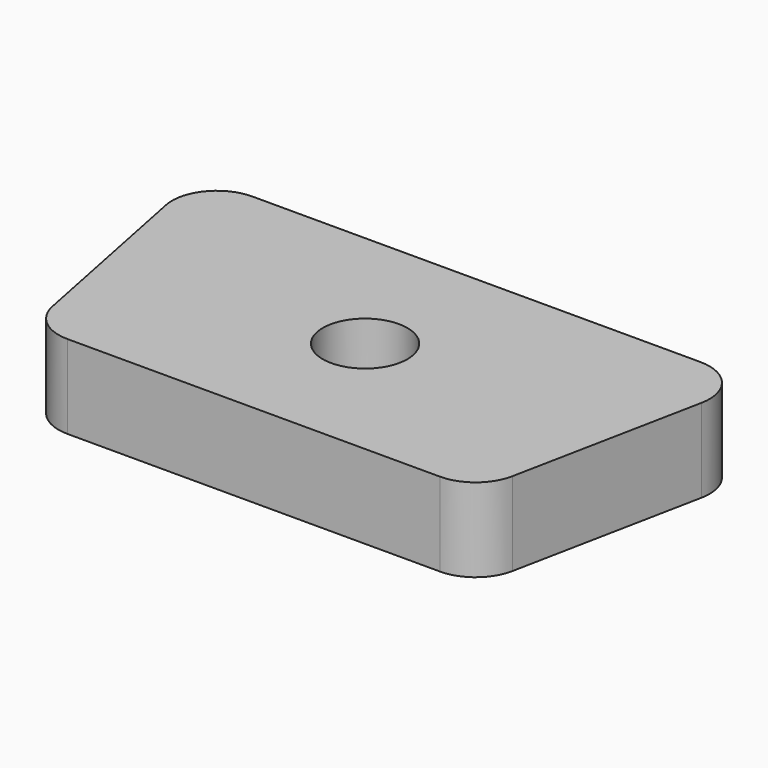
from build123d import *

# Parameters (mm, degrees)
F2_DEPTH = 9.525
F1_R     = 4.826
F3_DEPTH = 9.525
F4_R     = 5.08


with BuildPart() as f2:
    # F0 (on Top) → F2 (new body)
    with BuildSketch(Plane.XY):
        Polygon((31.75, 31.75), (0, 31.75), (-31.75, 31.75), (-25.4, 0), (0, 0), (25.4, 0), align=None)
    extrude(amount=F2_DEPTH)

    # F1 (on face) → F3 (cut, through all)
    with BuildSketch(Plane.XY):
        with Locations((0, 15.875)):
            Circle(F1_R)
    extrude(amount=F3_DEPTH, mode=Mode.SUBTRACT)

    # F4
    f4_edges = [f2.edges().sort_by_distance(p)[0] for p in [
        (-31.75, 31.75, 4.7625),
        (31.75, 31.75, 4.7625),
        (25.4, 0, 4.7625),
        (-25.4, 0, 4.7625),
    ]]
    fillet(f4_edges, radius=F4_R)


solid = f2.part
